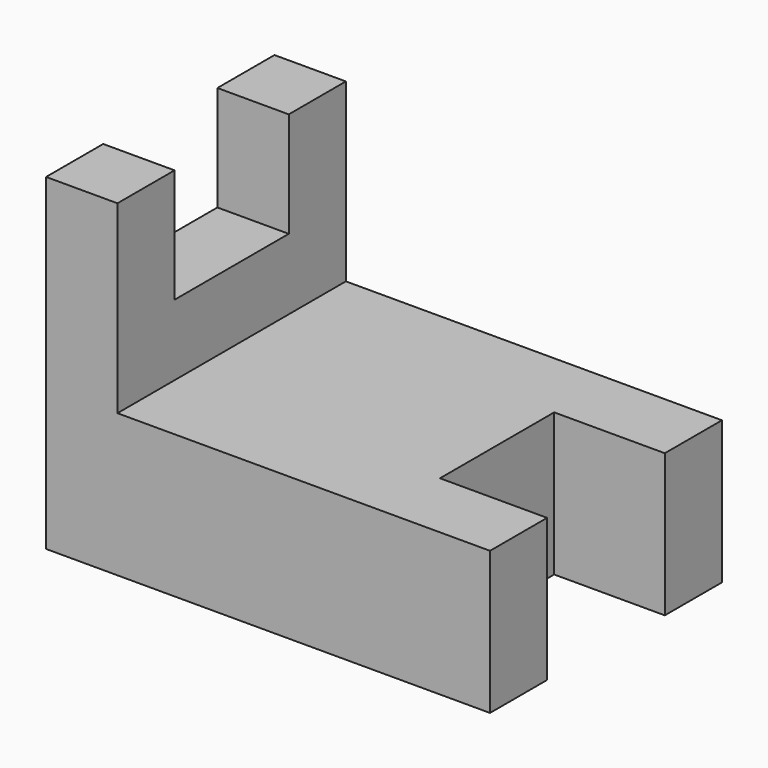
from build123d import *

# Parameters (mm, degrees)
F1_DEPTH = 12.7
F3_DEPTH = 6.35


with BuildPart() as f1:
    # F0 (on Top) → F1 (new body)
    with BuildSketch(Plane.XY):
        Polygon((39.80667, 25.4), (0, 25.4), (0, 0), (39.494211, 0), (39.494211, 6.35), (29.962875, 6.35), (29.962875, 19.05), (39.80667, 19.05), align=None)
    extrude(amount=F1_DEPTH)

    # F2 (on face) → F3 (join)
    with BuildSketch(Plane(origin=(0, 0, 0), x_dir=(0, -1, 0), z_dir=(-1, 0, 0))):
        Polygon((-25.4, 28.359208), (-25.4, 12.7), (0, 12.7), (0, 29.138843), (-6.35, 29.138843), (-6.35, 19.003594), (-19.05, 19.003594), (-19.05, 28.359208), align=None)
    extrude(amount=-F3_DEPTH)


solid = f1.part
